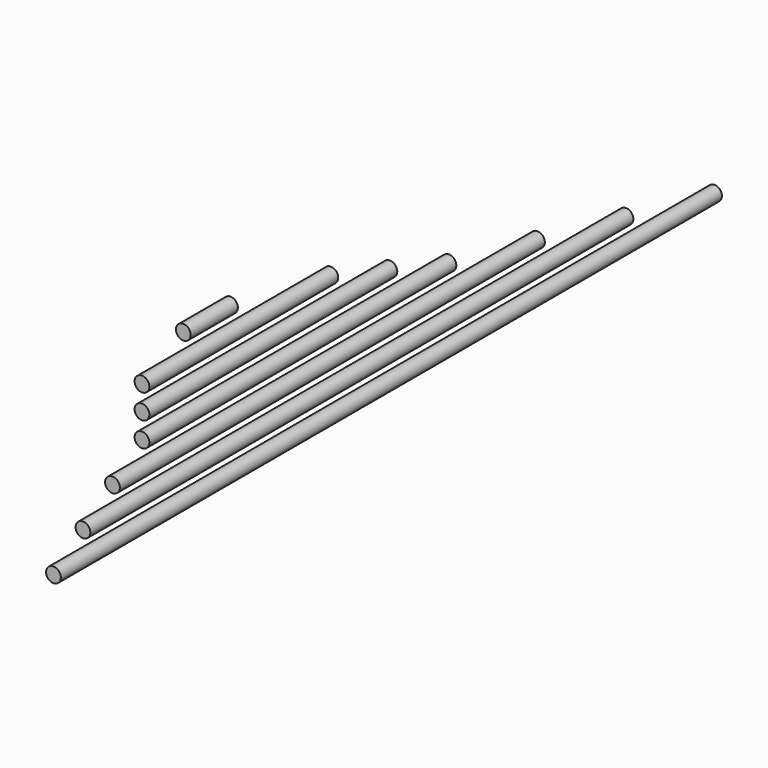
from build123d import *

# Parameters (mm, degrees)
F0_R     = 2.5
F1_DEPTH = 10
F2_DEPTH = 40
F3_DEPTH = 52.5
F4_DEPTH = 65
F5_DEPTH = 90
F6_DEPTH = 115
F7_DEPTH = 140


with BuildPart() as f1:
    # F0 (on Front) → F1 (new body, symmetric)
    with BuildSketch(Plane.XZ):
        with Locations((-30, 0)):
            Circle(F0_R)
    extrude(amount=F1_DEPTH, both=True)


with BuildPart() as f2:
    # F0 (on Front) → F2 (new body, symmetric)
    with BuildSketch(Plane.XZ):
        with Locations((-20, 0)):
            Circle(F0_R)
    extrude(amount=F2_DEPTH, both=True)


with BuildPart() as f3:
    # F0 (on Front) → F3 (new body, symmetric)
    with BuildSketch(Plane.XZ):
        with Locations((-10, 0)):
            Circle(F0_R)
    extrude(amount=F3_DEPTH, both=True)


with BuildPart() as f4:
    # F0 (on Front) → F4 (new body, symmetric)
    with BuildSketch(Plane.XZ):
        Circle(F0_R)
    extrude(amount=F4_DEPTH, both=True)


with BuildPart() as f5:
    # F0 (on Front) → F5 (new body, symmetric)
    with BuildSketch(Plane.XZ):
        with Locations((10, 0)):
            Circle(F0_R)
    extrude(amount=F5_DEPTH, both=True)


with BuildPart() as f6:
    # F0 (on Front) → F6 (new body, symmetric)
    with BuildSketch(Plane.XZ):
        with Locations((20, 0)):
            Circle(F0_R)
    extrude(amount=F6_DEPTH, both=True)


with BuildPart() as f7:
    # F0 (on Front) → F7 (new body, symmetric)
    with BuildSketch(Plane.XZ):
        with Locations((30, 0)):
            Circle(F0_R)
    extrude(amount=F7_DEPTH, both=True)


solid = Compound([f1.part, f2.part, f3.part, f4.part, f5.part, f6.part, f7.part])
